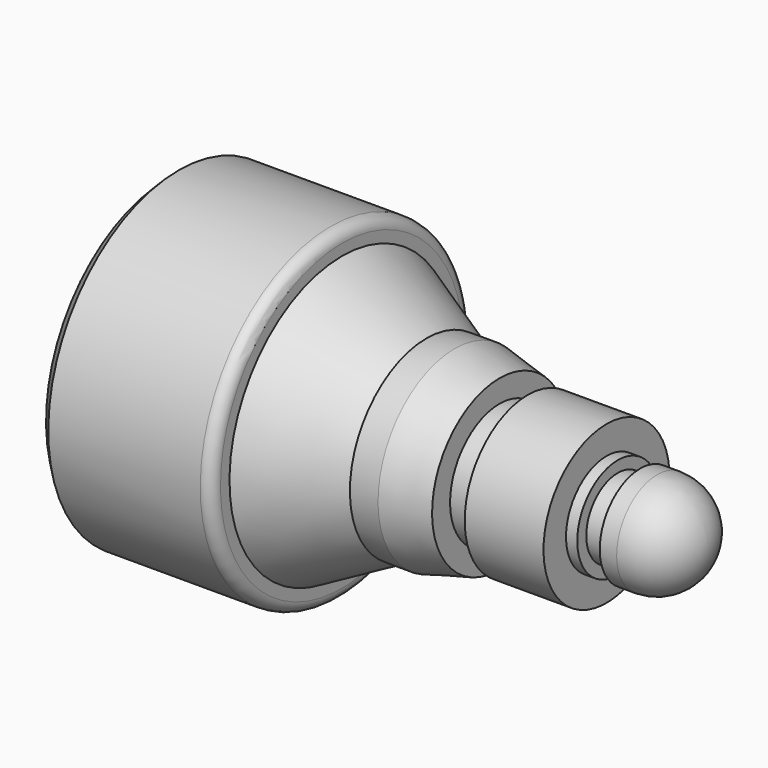
from build123d import *

# Parameters (mm, degrees)
F2_SIZE = 2
F3_R    = 2
F4_R    = 9


with BuildPart() as f1:
    # F0 (on Front) → F1 (revolve)
    with BuildSketch(Plane.XZ):
        Polygon((0, 29), (0, 0), (96, 0), (96, 9), (84, 9), (84, 7), (80, 7), (80, 9), (78, 9), (78, 14), (64, 14), (64, 11), (59, 11), (59, 15), (51, 17), (46, 17), (31, 25), (31, 29), align=None)
    revolve(axis=Axis((48, 0, 0), (1, 0, 0)))

    # F2
    f2_edges = [f1.edges().sort_by_distance(p)[0] for p in [
        (0, 0, -29),
    ]]
    chamfer(f2_edges, length=F2_SIZE)

    # F3
    f3_edges = [f1.edges().sort_by_distance(p)[0] for p in [
        (31, 0, -29),
    ]]
    fillet(f3_edges, radius=F3_R)

    # F4
    f4_edges = [f1.edges().sort_by_distance(p)[0] for p in [
        (96, 0, -9),
    ]]
    fillet(f4_edges, radius=F4_R)


solid = f1.part
